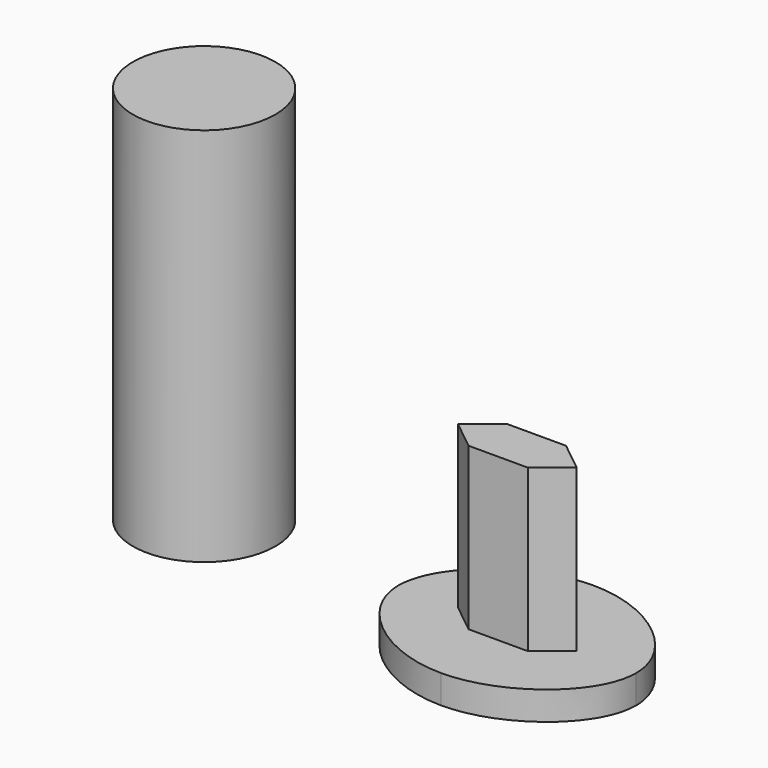
from build123d import *

# Parameters (mm, degrees)
F0_R     = 19.05
F1_DEPTH = 101.6
F2_DEPTH = 7.62
F3_DEPTH = 50.8


with BuildPart() as f1:
    # F0 (on Top) → F1 (new body)
    with BuildSketch(Plane.XY):
        with Locations((-43.4440262616, 15.5107108876)):
            Circle(F0_R)
    extrude(amount=F1_DEPTH)


with BuildPart() as f2:
    # F0 (on Top) → F2 (new body)
    with BuildSketch(Plane.XY):
        with BuildLine():
            add(Edge.make_bspline(
                [(15.8317610621, 6.3454846482), (15.8346477167, 19.0481979973), (31.7188776126, 31.7507355826), (47.5975433517, 31.7532892549)],
                knots=[0, 0, 0, 0, 0.2500528794, 0.2500528794, 0.2500528794, 0.2500528794], degree=3))
            Line((15.8317610621, 6.3454846482), (31.7146522069, 19.0493869516))
            Line((31.7146522069, 19.0493869516), (47.5975433517, 31.7532892549))
        make_face()
        with BuildLine():
            add(Edge.make_bspline(
                [(47.5975433517, 31.7532892549), (63.4676360014, 31.7558415485), (79.332170501, 19.0721199858), (79.3317610621, 6.3763237987)],
                knots=[0.2500528794, 0.2500528794, 0.2500528794, 0.2500528794, 0.4999707521, 0.4999707521, 0.4999707521, 0.4999707521], degree=3))
            Line((47.5975433517, 31.7532892549), (63.4646522069, 19.0648065268))
            Line((63.4646522069, 19.0648065268), (79.3317610621, 6.3763237987))
        make_face()
        with BuildLine():
            Line((63.4481841962, -6.3351934732), (47.5646073302, -19.0467107451))
            add(Edge.make_bspline(
                [(79.3317610621, 6.3763237987), (79.3313513488, -6.3279834193), (63.4447194269, -19.0443814564), (47.5646073302, -19.0467107451)],
                knots=[0.4999707521, 0.4999707521, 0.4999707521, 0.4999707521, 0.7500561652, 0.7500561652, 0.7500561652, 0.7500561652], degree=3))
            Line((79.3317610621, 6.3763237987), (63.4481841962, -6.3351934732))
        make_face()
        with BuildLine():
            Line((31.6981841962, -6.3506130484), (15.8317610621, 6.3454846482))
            add(Edge.make_bspline(
                [(47.5646073302, -19.0467107451), (31.6934852757, -19.0490387151), (15.8288756664, -6.3516892281), (15.8317610621, 6.3454846482)],
                knots=[0.7500561652, 0.7500561652, 0.7500561652, 0.7500561652, 1, 1, 1, 1], degree=3))
            Line((47.5646073302, -19.0467107451), (31.6981841962, -6.3506130484))
        make_face()
        Polygon((31.70642067, 6.3531942705), (15.8317610621, 6.3454846482), (31.6981841962, -6.3506130484), (31.7064182015, 6.3493869516), align=None)
        Polygon((31.7146522069, 19.0493869516), (15.8317610621, 6.3454846482), (31.70642067, 6.3531942705), align=None)
        Polygon((31.7146522069, 19.0493869516), (31.70642067, 6.3531942705), (31.7111784944, 6.3531965812), (39.6482066345, 12.7051455875), align=None)
        Polygon((47.5893118148, 19.0570965739), (31.7146522069, 19.0493869516), (39.6482066345, 12.7051455875), (47.5851902108, 12.699999669), align=None)
        Polygon((47.5893118148, 19.0570965739), (47.5975433517, 31.7532892549), (31.7146522069, 19.0493869516), align=None)
        Polygon((63.4646522069, 19.0648065268), (47.5975433517, 31.7532892549), (47.5893118148, 19.0570965739), align=None)
        Polygon((63.4646522069, 19.0648065268), (47.5893118148, 19.0570965739), (47.5851902108, 12.699999669), (55.5232066345, 12.7128553751), align=None)
        Polygon((63.45642067, 6.3686138458), (63.4646522069, 19.0648065268), (55.5232066345, 12.7128553751), (63.4516630497, 6.3686115352), align=None)
        Polygon((63.45642067, 6.3686138458), (79.3317610621, 6.3763237987), (63.4646522069, 19.0648065268), align=None)
        Polygon((63.4481841962, -6.3351934732), (79.3317610621, 6.3763237987), (63.45642067, 6.3686138458), (63.4564182015, 6.3648065268), align=None)
        Polygon((55.5310381027, 0), (63.4481841962, -6.3351934732), (63.4564182015, 6.3648065268), align=None)
        Polygon((47.5769562057, 0), (47.572843804, -6.3429034261), (63.4481841962, -6.3351934732), (55.5310381027, 0), (47.5822905516, 0), align=None)
        Polygon((47.572843804, -6.3429034261), (47.5646073302, -19.0467107451), (63.4481841962, -6.3351934732), align=None)
        Polygon((31.6981841962, -6.3506130484), (47.5646073302, -19.0467107451), (47.572843804, -6.3429034261), align=None)
        Polygon((39.6335430006, 0), (31.6981841962, -6.3506130484), (47.572843804, -6.3429034261), (47.5769562057, 0), align=None)
        Polygon((31.7064182015, 6.3493869516), (31.6981841962, -6.3506130484), (39.6335430006, 0), align=None)
    extrude(amount=F2_DEPTH)

    # F0 (on Top) → F3 (join)
    with BuildSketch(Plane.XY):
        Polygon((47.5851902108, 12.699999669), (39.6482066345, 12.7051455875), (47.5810806309, 6.3614483453), align=None)
        Polygon((55.5232066345, 12.7128553751), (47.5851902108, 12.699999669), (47.5810806309, 6.3614483453), (47.5817610621, 6.3609042235), align=None)
        Polygon((63.4516630497, 6.3686115352), (55.5232066345, 12.7128553751), (47.5817610621, 6.3609042235), align=None)
        Polygon((55.5310381027, 0), (63.4564182015, 6.3648065268), (63.4516630497, 6.3686115352), (47.5817610621, 6.3609042235), align=None)
        Polygon((47.5810799247, 6.3603591138), (47.5769562057, 0), (47.5822905516, 0), (55.5310381027, 0), (47.5817610621, 6.3609042235), align=None)
        Polygon((47.5810799247, 6.3603591138), (39.6335430006, 0), (47.5769562057, 0), align=None)
        Polygon((47.5810802779, 6.3609038928), (31.7111784944, 6.3531965812), (31.7064182015, 6.3493869516), (39.6335430006, 0), (47.5810799247, 6.3603591138), align=None)
        Polygon((39.6482066345, 12.7051455875), (31.7111784944, 6.3531965812), (47.5810802779, 6.3609038928), (47.5810806309, 6.3614483453), align=None)
    extrude(amount=F3_DEPTH)


solid = Compound([f1.part, f2.part])
